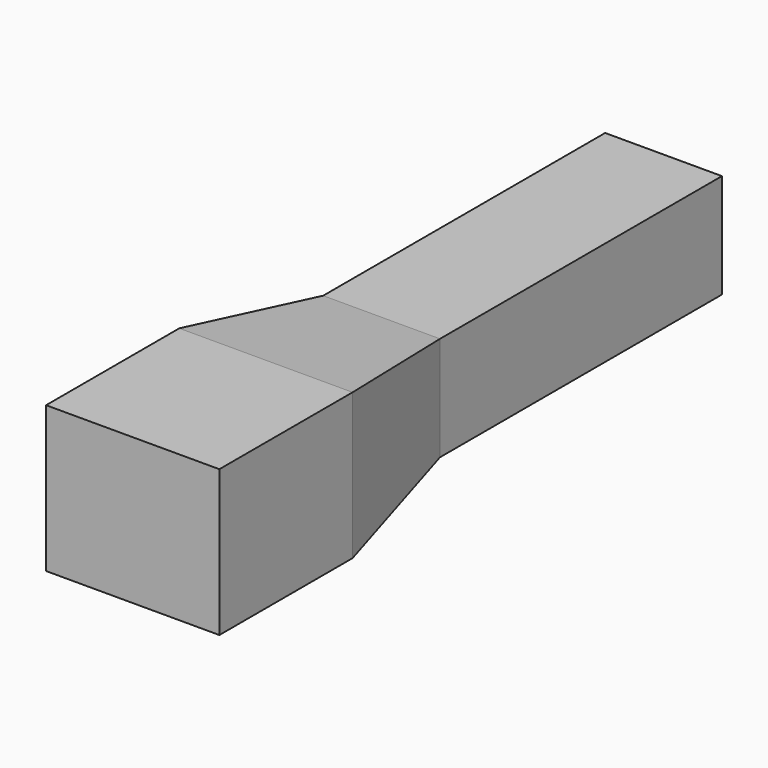
from build123d import *

# Parameters (mm, degrees)
F1_DEPTH  = 12.5
F0_W      = 41.539789
F0_H      = 39.913434
F2_DEPTH  = 17.5
F3_DEPTH  = 17.5
F1_FACE_W = 28
F1_FACE_H = 25
F3_FACE_W = 41.53979
F3_FACE_H = 35


with BuildPart() as f1:
    # F0 (on Top) → F1 (new body, symmetric)
    with BuildSketch(Plane.XY):
        Polygon((-27.157828, 0), (-27.157828, 84.474362), (-55.157828, 84.474362), (-55.157828, 0), (-41.157828, 0), align=None)
    extrude(amount=F1_DEPTH, both=True)


with BuildPart() as f2:
    # F0 (on Top) → F2 (new body, symmetric)
    with BuildSketch(Plane.XY):
        with Locations((-41.157829, -54.623103)):
            Rectangle(F0_W, F0_H)
    extrude(amount=F2_DEPTH, both=True)


with BuildPart() as f3:
    # F0 (on Top) → F3 (new body, symmetric)
    with BuildSketch(Plane.XY):
        with Locations((-41.157829, -54.623103)):
            Rectangle(F0_W, F0_H)
    extrude(amount=F3_DEPTH, both=True)


with BuildPart() as f4:
    # F1_face (on face) → F4 section 0
    with BuildSketch(Plane(origin=(-41.157828, 0, 0), x_dir=(1, 0, 0), z_dir=(0, -1, 0))):
        Rectangle(F1_FACE_W, F1_FACE_H)
    # F3_face (on face) → F4 section 1
    with BuildSketch(Plane(origin=(-41.157828, -34.666386, 0), x_dir=(-1, 0, 0), z_dir=(0, 1, 0))):
        Rectangle(F3_FACE_W, F3_FACE_H)
    loft()


solid = Compound([f1.part, f2.part, f3.part, f4.part])
